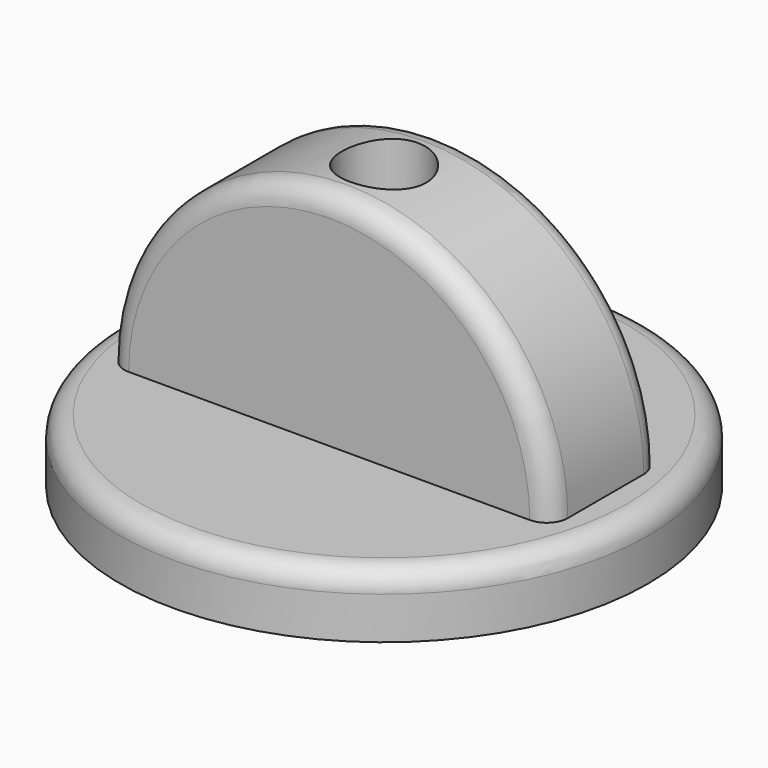
from build123d import *

# Parameters (mm, degrees)
SKETCH_R          = 12.5
PAD_DEPTH         = 3
PAD001_DEPTH      = 3.25
SKETCH003_R       = 1.1
POCKET_DEPTH      = 3.001
POCKET_DEPTH_BACK = 10.501
SKETCH004_R       = 2
POCKET001_DEPTH   = 16
SKETCH005_W       = 5.4
SKETCH005_H       = 5.4
POCKET002_DEPTH   = 2
FILLET_R          = 1


with BuildPart() as part:
    # Sketch → Pad (new body)
    with BuildSketch(Plane.XY):
        Circle(SKETCH_R)
    extrude(amount=-PAD_DEPTH)

    # Sketch002 → Pad001 (join, symmetric)
    with BuildSketch(Plane.XZ):
        with BuildLine():
            ThreePointArc((10.5, 0), (0, 10.5), (-10.5, 0))
            Line((-10.5, 0), (10.5, 0))
        make_face()
    extrude(amount=PAD001_DEPTH, both=True)

    # Sketch003 → Pocket (cut, two sides)
    with BuildSketch(Plane.XY) as pocket_sk:
        Circle(SKETCH003_R)
    extrude(amount=-POCKET_DEPTH, mode=Mode.SUBTRACT)
    extrude(pocket_sk.sketch, amount=POCKET_DEPTH_BACK, mode=Mode.SUBTRACT)

    # Sketch004 → Pocket001 (cut)
    with BuildSketch(Plane.XY.offset(16.5)):
        Circle(SKETCH004_R)
    extrude(amount=-POCKET001_DEPTH, mode=Mode.SUBTRACT)

    # Sketch005 (on Face3 of Pocket001) → Pocket002 (cut)
    with BuildSketch(Plane(origin=(0, 0, -3), x_dir=(1, 0, 0), z_dir=(0, 0, -1))):
        Rectangle(SKETCH005_W, SKETCH005_H)
    extrude(amount=-POCKET002_DEPTH, mode=Mode.SUBTRACT)

    # Fillet
    fillet_edges = [part.edges().sort_by_distance(p)[0] for p in [
        (0, -3.25, 10.5),
        (0, 3.25, 10.5),
        (-12.5, 0, 0),
    ]]
    fillet(fillet_edges, radius=FILLET_R)


solid = part.part
